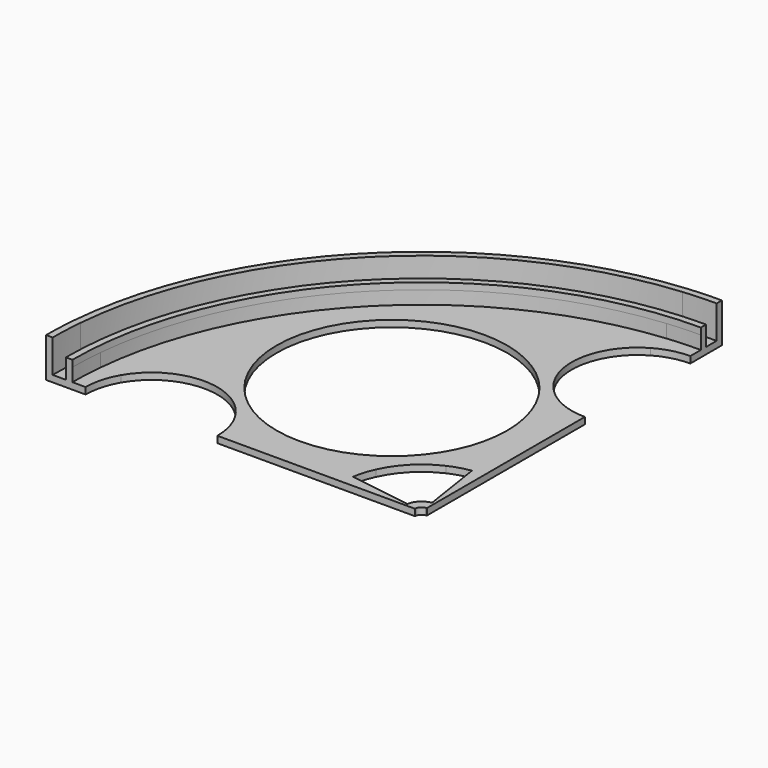
from build123d import *

# Parameters (mm, degrees)
F1_DEPTH = 2.54
F2_DEPTH = 7.62
F3_DEPTH = 2.54
F4_DEPTH = 15.24


with BuildPart() as f1:
    # F0 (on Top) → F1 (new body)
    with BuildSketch(Plane.XY):
        with BuildLine():
            Line((-6.2754395375, 0.9702363687), (-12.7, 1.9635281017))
            Line((-12.7, 1.9635281017), (-12.7, 0))
            Line((-12.7, 0), (-6.35, 0))
            ThreePointArc((-6.35, 0), (-6.3313324452, 0.4865485263), (-6.2754395375, 0.9702363687))
        make_face()
        with BuildLine():
            Line((-6.35, 0), (-2.54, 0))
            ThreePointArc((-2.54, 0), (-2.5325329781, 0.1946194105), (-2.510175815, 0.3880945475))
            Line((-2.510175815, 0.3880945475), (-6.2754395375, 0.9702363687))
            ThreePointArc((-6.2754395375, 0.9702363687), (-6.3313324452, 0.4865485263), (-6.35, 0))
        make_face()
        with BuildLine():
            ThreePointArc((-2.510175815, 0.3880945475), (-1.7960512242, 1.7960512242), (-0.3880945475, 2.510175815))
            Line((-0.3880945475, 2.510175815), (-0.9702363687, 6.2754395375))
            ThreePointArc((-0.9702363687, 6.2754395375), (-4.4901280605, 4.4901280605), (-6.2754395375, 0.9702363687))
            Line((-6.2754395375, 0.9702363687), (-2.510175815, 0.3880945475))
        make_face()
        with BuildLine():
            Line((0, 2.54), (0, 6.35))
            ThreePointArc((0, 6.35), (-0.4865485263, 6.3313324452), (-0.9702363687, 6.2754395375))
            Line((-0.9702363687, 6.2754395375), (-0.3880945475, 2.510175815))
            ThreePointArc((-0.3880945475, 2.510175815), (-0.1946194105, 2.5325329781), (0, 2.54))
        make_face()
        with BuildLine():
            Line((0, 6.35), (0, 12.7))
            Line((0, 12.7), (-1.9635281017, 12.7))
            Line((-1.9635281017, 12.7), (-0.9702363687, 6.2754395375))
            ThreePointArc((-0.9702363687, 6.2754395375), (-0.4865485263, 6.3313324452), (0, 6.35))
        make_face()
        with BuildLine():
            Line((0, 12.7), (0, 30.48))
            ThreePointArc((0, 30.48), (-2.3354329262, 30.3903957369), (-4.6571345698, 30.12210978))
            Line((-4.6571345698, 30.12210978), (-1.9635281017, 12.7))
            Line((-1.9635281017, 12.7), (0, 12.7))
        make_face()
        with BuildLine():
            Line((-12.7, 1.9635281017), (-30.12210978, 4.6571345698))
            ThreePointArc((-30.12210978, 4.6571345698), (-30.3903957369, 2.3354329262), (-30.48, 0))
            Line((-30.48, 0), (-12.7, 0))
            Line((-12.7, 0), (-12.7, 1.9635281017))
        make_face()
        with BuildLine():
            Line((-30.12210978, 4.6571345698), (-82.1429547439, 12.7))
            ThreePointArc((-82.1429547439, 12.7), (-79.6054840123, 6.5740037456), (-78.74, 0))
            Line((-78.74, 0), (-30.48, 0))
            ThreePointArc((-30.48, 0), (-30.3903957369, 2.3354329262), (-30.12210978, 4.6571345698))
        make_face()
        with BuildLine():
            Line((-12.7, 126.1370452561), (-12.7, 134.0196045361))
            ThreePointArc((-12.7, 134.0196045361), (-95.1907148833, 95.1907148833), (-134.0196045361, 12.7))
            Line((-134.0196045361, 12.7), (-126.1370452561, 12.7))
            ThreePointArc((-126.1370452561, 12.7), (-104.14, 25.4), (-82.1429547439, 12.7))
            Line((-82.1429547439, 12.7), (-57.15, 12.7))
            ThreePointArc((-57.15, 12.7), (-88.5808964237, 88.5808964237), (-12.7, 57.15))
            Line((-12.7, 57.15), (-12.7, 82.1429547439))
            ThreePointArc((-12.7, 82.1429547439), (-25.4, 104.14), (-12.7, 126.1370452561))
        make_face()
        with BuildLine():
            Line((-126.1370452561, 12.7), (-134.0196045361, 12.7))
            ThreePointArc((-134.0196045361, 12.7), (-134.4698173618, 6.3570919986), (-134.62, 0))
            Line((-134.62, 0), (-129.54, 0))
            ThreePointArc((-129.54, 0), (-128.6745159877, 6.5740037456), (-126.1370452561, 12.7))
        make_face()
        with BuildLine():
            Line((-57.15, 12.7), (-82.1429547439, 12.7))
            Line((-82.1429547439, 12.7), (-30.12210978, 4.6571345698))
            ThreePointArc((-30.12210978, 4.6571345698), (-29.1934246673, 8.7620977053), (-27.7081287712, 12.7))
            Line((-27.7081287712, 12.7), (-57.15, 12.7))
        make_face()
        with BuildLine():
            Line((-12.7, 27.7081287712), (-12.7, 57.15))
            ThreePointArc((-12.7, 57.15), (-25.7191035763, 25.7191035763), (-57.15, 12.7))
            Line((-57.15, 12.7), (-27.7081287712, 12.7))
            ThreePointArc((-27.7081287712, 12.7), (-21.5526146906, 21.5526146906), (-12.7, 27.7081287712))
        make_face()
        with BuildLine():
            Line((-4.6571345698, 30.12210978), (-12.7, 82.1429547439))
            Line((-12.7, 82.1429547439), (-12.7, 57.15))
            Line((-12.7, 57.15), (-12.7, 27.7081287712))
            ThreePointArc((-12.7, 27.7081287712), (-8.7620977053, 29.1934246673), (-4.6571345698, 30.12210978))
        make_face()
        with BuildLine():
            Line((0, 30.48), (0, 78.74))
            ThreePointArc((0, 78.74), (-6.5740037456, 79.6054840123), (-12.7, 82.1429547439))
            Line((-12.7, 82.1429547439), (-4.6571345698, 30.12210978))
            ThreePointArc((-4.6571345698, 30.12210978), (-2.3354329262, 30.3903957369), (0, 30.48))
        make_face()
        with BuildLine():
            Line((0, 129.54), (0, 134.62))
            ThreePointArc((0, 134.62), (-6.3570919986, 134.4698173618), (-12.7, 134.0196045361))
            Line((-12.7, 134.0196045361), (-12.7, 126.1370452561))
            ThreePointArc((-12.7, 126.1370452561), (-6.5740037456, 128.6745159877), (0, 129.54))
        make_face()
    extrude(amount=F1_DEPTH)

    # F0 (on Top) → F2 (join)
    with BuildSketch(Plane.XY):
        with BuildLine():
            ThreePointArc((-134.62, 0), (-134.4698173618, 6.3570919986), (-134.0196045361, 12.7))
            Line((-134.0196045361, 12.7), (-136.5707713971, 12.7))
            ThreePointArc((-136.5707713971, 12.7), (-137.0126136617, 6.3568307817), (-137.16, 0))
            Line((-137.16, 0), (-134.62, 0))
        make_face()
        with BuildLine():
            ThreePointArc((-134.0196045361, 12.7), (-95.1907148833, 95.1907148833), (-12.7, 134.0196045361))
            Line((-12.7, 134.0196045361), (-12.7, 136.5707713971))
            ThreePointArc((-12.7, 136.5707713971), (-96.9867661075, 96.9867661075), (-136.5707713971, 12.7))
            Line((-136.5707713971, 12.7), (-134.0196045361, 12.7))
        make_face()
        with BuildLine():
            ThreePointArc((-12.7, 134.0196045361), (-6.3570919986, 134.4698173618), (0, 134.62))
            Line((0, 134.62), (0, 137.16))
            ThreePointArc((0, 137.16), (-6.3568307817, 137.0126136617), (-12.7, 136.5707713971))
            Line((-12.7, 136.5707713971), (-12.7, 134.0196045361))
        make_face()
    extrude(amount=F2_DEPTH)

    # F0 (on Top) + F2_face (on face) → F3 (join)
    with BuildSketch(Plane.XY):
        with BuildLine():
            ThreePointArc((-137.16, 0), (-137.0126136617, 6.3568307817), (-136.5707713971, 12.7))
            Line((-136.5707713971, 12.7), (-141.6719012366, 12.7))
            ThreePointArc((-141.6719012366, 12.7), (-142.0979043334, 6.3563499), (-142.24, 0))
            Line((-142.24, 0), (-137.16, 0))
        make_face()
        with BuildLine():
            ThreePointArc((-136.5707713971, 12.7), (-96.9867661075, 96.9867661075), (-12.7, 136.5707713971))
            Line((-12.7, 136.5707713971), (-12.7, 141.6719012366))
            ThreePointArc((-12.7, 141.6719012366), (-100.578868556, 100.578868556), (-141.6719012366, 12.7))
            Line((-141.6719012366, 12.7), (-136.5707713971, 12.7))
        make_face()
        with BuildLine():
            ThreePointArc((-12.7, 136.5707713971), (-6.3568307817, 137.0126136617), (0, 137.16))
            Line((0, 137.16), (0, 142.24))
            ThreePointArc((0, 142.24), (-6.3563499, 142.0979043334), (-12.7, 141.6719012366))
            Line((-12.7, 141.6719012366), (-12.7, 136.5707713971))
        make_face()
    with BuildSketch(Plane(origin=(-86.5127795808, 86.5127795808, 7.62), x_dir=(1, 0, 0), z_dir=(0, 0, 1))):
        with BuildLine():
            Line((-50.6472204192, -86.5127795808), (-48.1072204192, -86.5127795808))
            ThreePointArc((-48.1072204192, -86.5127795808), (-8.6779353026, 8.6779353025), (86.5127795808, 48.1072204192))
            Line((86.5127795808, 48.1072204192), (86.5127795808, 50.6472204192))
            ThreePointArc((86.5127795808, 50.6472204192), (-10.4739865268, 10.4739865267), (-50.6472204192, -86.5127795808))
        make_face()
    extrude(amount=F3_DEPTH)

    # F0 (on Top) → F4 (join)
    with BuildSketch(Plane.XY):
        with BuildLine():
            ThreePointArc((-142.24, 0), (-142.0979043334, 6.3563499), (-141.6719012366, 12.7))
            Line((-141.6719012366, 12.7), (-144.2219067964, 12.7))
            ThreePointArc((-144.2219067964, 12.7), (-144.6404094055, 6.3561283031), (-144.78, 0))
            Line((-144.78, 0), (-142.24, 0))
        make_face()
        with BuildLine():
            ThreePointArc((-141.6719012366, 12.7), (-100.578868556, 100.578868556), (-12.7, 141.6719012366))
            Line((-12.7, 141.6719012366), (-12.7, 144.2219067964))
            ThreePointArc((-12.7, 144.2219067964), (-102.3749197802, 102.3749197802), (-144.2219067964, 12.7))
            Line((-144.2219067964, 12.7), (-141.6719012366, 12.7))
        make_face()
        with BuildLine():
            ThreePointArc((-12.7, 141.6719012366), (-6.3563499, 142.0979043334), (0, 142.24))
            Line((0, 142.24), (0, 144.78))
            ThreePointArc((0, 144.78), (-6.3561283031, 144.6404094055), (-12.7, 144.2219067964))
            Line((-12.7, 144.2219067964), (-12.7, 141.6719012366))
        make_face()
    extrude(amount=F4_DEPTH)


solid = f1.part
